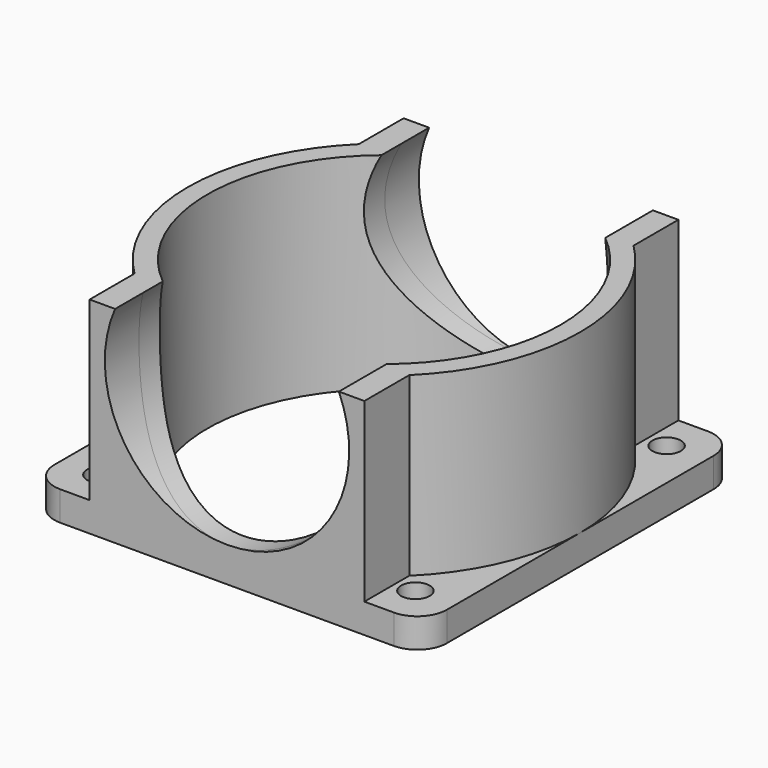
from build123d import *

# Parameters (mm, degrees)
CYLINDER002_R          = 12.45
CYLINDER002_DEPTH      = 55
CYLINDER002_ROLL_ANGLE = 90
CYLINDER005_R          = 18
CYLINDER005_DEPTH      = 39
BOX001_W               = 28
BOX001_H               = 8
BOX001_DEPTH           = 21
BOX001001_W            = 28
BOX001001_H            = 8
BOX001001_DEPTH        = 21
CYLINDER001_R          = 18
CYLINDER001_DEPTH      = 10
CYLINDER_R             = 1.45
CYLINDER_DEPTH         = 10
ARRAY_X_COUNT          = 2
ARRAY_X_PITCH          = 32
ARRAY_Y_COUNT          = 2
ARRAY_Y_PITCH          = 32
BOX_W                  = 40
BOX_H                  = 40
BOX_DEPTH              = 3
FILLET_R               = 3
CYLINDER004_R          = 18
CYLINDER004_DEPTH      = 21
CYLINDER003_R          = 20
CYLINDER003_DEPTH      = 21


with BuildPart() as cylinder002:
    # Cylinder002 → Cylinder002 (new body)
    with BuildSketch(Plane.XY):
        Circle(CYLINDER002_R)
    extrude(amount=CYLINDER002_DEPTH)


with BuildPart() as cylinder002_1:
    # Cylinder002 roll: moved
    add(cylinder002.part.rotate(Axis((0, 0, 0), (1, 0, 0)), CYLINDER002_ROLL_ANGLE))


with BuildPart() as cylinder002_2:
    # Cylinder002 placement: moved
    add(cylinder002_1.part.moved(Location((20, 45.000004, 16))))


with BuildPart() as cylinder005:
    # Cylinder005 → Cylinder005 (new body)
    with BuildSketch(Plane(origin=(20, 20, -6), x_dir=(1, 0, 0), z_dir=(0, 0, 1))):
        Circle(CYLINDER005_R)
    extrude(amount=CYLINDER005_DEPTH)


with BuildPart() as box001:
    # Box001 → Box001 (new body)
    with BuildSketch(Plane(origin=(6, 0, 0), x_dir=(1, 0, 0), z_dir=(0, 0, 1))):
        with Locations((14, 4)):
            Rectangle(BOX001_W, BOX001_H)
    extrude(amount=BOX001_DEPTH)


with BuildPart() as cut005:
    # Box001001 → Box001001 (new body)
    with BuildSketch(Plane(origin=(6, 32, 0), x_dir=(1, 0, 0), z_dir=(0, 0, 1))):
        with Locations((14, 4)):
            Rectangle(BOX001001_W, BOX001001_H)
    extrude(amount=BOX001001_DEPTH)

    # Fusion001: union Box001
    add(box001.part)

    # Cut004: cut Cylinder005
    add(cylinder005.part, mode=Mode.SUBTRACT)

    # Cut005: cut Cylinder002
    add(cylinder002_2.part, mode=Mode.SUBTRACT)


with BuildPart() as cylinder001:
    # Cylinder001 → Cylinder001 (new body)
    with BuildSketch(Plane(origin=(20, 20, 0), x_dir=(1, 0, 0), z_dir=(0, 0, 1))):
        Circle(CYLINDER001_R)
    extrude(amount=CYLINDER001_DEPTH)


with BuildPart() as array:
    # Cylinder → Cylinder (new body)
    with BuildSketch(Plane.XY):
        Circle(CYLINDER_R)
    extrude(amount=CYLINDER_DEPTH)

    # Array X: Array ×2


with BuildPart() as array_1:
    add(array.part)
    with Locations(*[(i * ARRAY_X_PITCH, 0, 0) for i in range(1, ARRAY_X_COUNT)]):
        add(array.part)

    # Array Y: Array ×2


with BuildPart() as array_2:
    add(array_1.part)
    with Locations(*[(0, i * ARRAY_Y_PITCH, 0) for i in range(1, ARRAY_Y_COUNT)]):
        add(array_1.part)


with BuildPart() as array_3:
    # Array placement: moved
    add(array_2.part.moved(Location((4, 4, 0))))


with BuildPart() as fillet_body:
    # Box → Box (new body)
    with BuildSketch(Plane.XY):
        with Locations((20, 20)):
            Rectangle(BOX_W, BOX_H)
    extrude(amount=BOX_DEPTH)

    # Cut: cut Array
    add(array_3.part, mode=Mode.SUBTRACT)

    # Cut001: cut Cylinder001
    add(cylinder001.part, mode=Mode.SUBTRACT)

    # Fillet
    fillet_edges = [fillet_body.edges().sort_by_distance(p)[0] for p in [
        (0, 0, 1.5),
        (0, 40, 1.5),
        (40, 0, 1.5),
        (40, 40, 1.5),
    ]]
    fillet(fillet_edges, radius=FILLET_R)


with BuildPart() as cylinder004:
    # Cylinder004 → Cylinder004 (new body)
    with BuildSketch(Plane(origin=(20, 20, 0), x_dir=(1, 0, 0), z_dir=(0, 0, 1))):
        Circle(CYLINDER004_R)
    extrude(amount=CYLINDER004_DEPTH)


with BuildPart() as fusion002:
    # Cylinder003 → Cylinder003 (new body)
    with BuildSketch(Plane(origin=(20, 20, 0), x_dir=(1, 0, 0), z_dir=(0, 0, 1))):
        Circle(CYLINDER003_R)
    extrude(amount=CYLINDER003_DEPTH)

    # Cut002: cut Cylinder004
    add(cylinder004.part, mode=Mode.SUBTRACT)

    # Fusion: union Fillet body
    add(fillet_body.part)

    # Cut003: cut Cylinder002
    add(cylinder002_2.part, mode=Mode.SUBTRACT)

    # Fusion002: union Cut005
    add(cut005.part)


solid = fusion002.part
